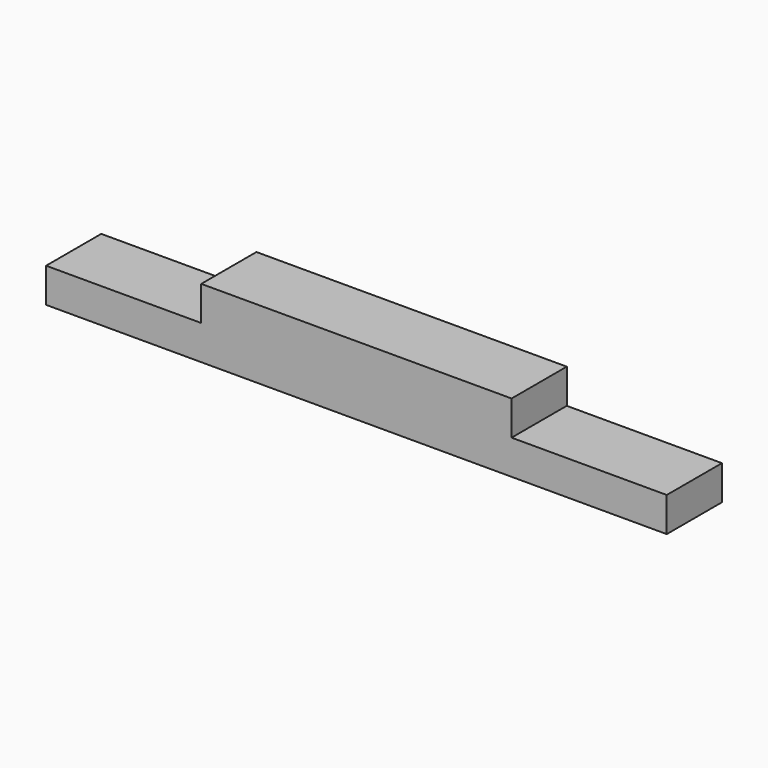
from build123d import *

# Parameters (mm, degrees)
F1_DEPTH = 12.7


with BuildPart() as f1:
    # F0 (on Front) → F1 (new body)
    with BuildSketch(Plane.XZ):
        Polygon((44.074243, -1.927952), (-13.075757, -1.927952), (-13.075757, -8.277952), (15.499243, -8.277952), (44.074243, -8.277952), align=None)
        Polygon((15.499243, -8.277952), (-13.075757, -8.277952), (-41.650757, -8.277952), (-41.650757, -14.627952), (15.499243, -14.627952), align=None)
        Polygon((72.649243, -8.277952), (44.074243, -8.277952), (15.499243, -8.277952), (15.499243, -14.627952), (72.649243, -14.627952), align=None)
    extrude(amount=F1_DEPTH)


solid = f1.part
